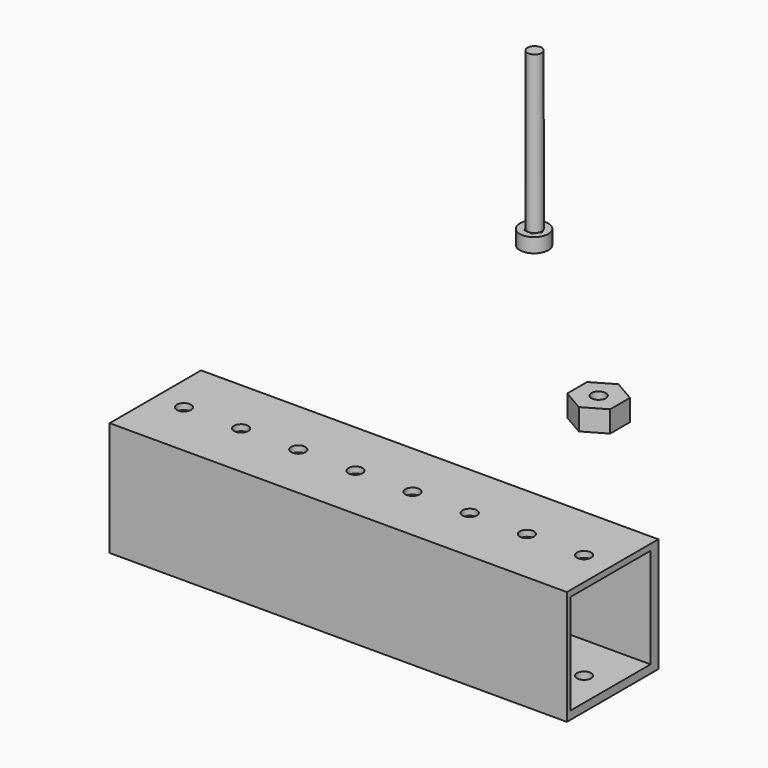
from build123d import *

# Parameters (mm, degrees)
F0_R      = 1.5875
F1_DEPTH  = 4.7625
F2_R      = 1.5875
F3_DEPTH  = 34.925
F4_R      = 3.175
F5_DEPTH  = 3.175
F7_DEPTH  = 3.175
F8_W      = 101.6
F8_H      = 25.4
F9_DEPTH  = 25.4
F10_W     = 22.225
F10_H     = 22.225
F11_DEPTH = 101.6
F12_R     = 1.5875
F13_DEPTH = 25.4


with BuildPart() as f1:
    # F0 (on Top) → F1 (new body)
    with BuildSketch(Plane.XY):
        Polygon((-4.7625, 2.749631), (-4.7625, -2.749631), (0, -5.499261), (4.7625, -2.749631), (4.7625, 2.749631), (0, 5.499261), align=None)
        Circle(F0_R, mode=Mode.SUBTRACT)
    extrude(amount=F1_DEPTH)


with BuildPart() as f3:
    # F2 (on Top) → F3 (new body)
    with BuildSketch(Plane.XY):
        with Locations((-53.541165, 49.139366)):
            Circle(F2_R)
    extrude(amount=F3_DEPTH)

    # F4 (on Top) → F5 (join)
    with BuildSketch(Plane.XY):
        with Locations((-53.650584, 49.121924)):
            Circle(F4_R)
    extrude(amount=-F5_DEPTH)

    # F6 (on Top) → F7 (cut)
    with BuildSketch(Plane.XY):
        Polygon((-54.360942, 50.758298), (-55.396058, 49.245439), (-54.603442, 47.592573), (-52.77571, 47.452565), (-51.740593, 48.965424), (-52.53321, 50.618291), align=None)
    extrude(amount=-F7_DEPTH, mode=Mode.SUBTRACT)


with BuildPart() as f9:
    # F8 (on Top) → F9 (new body)
    with BuildSketch(Plane.XY):
        with Locations((-14.710551, -41.229142)):
            Rectangle(F8_W, F8_H)
    extrude(amount=-F9_DEPTH)

    # F10 (on face) → F11 (cut)
    with BuildSketch(Plane(origin=(-65.510551, 0, 0), x_dir=(0, -1, 0), z_dir=(-1, 0, 0))):
        with Locations((41.818157, -12.472743)):
            Rectangle(F10_W, F10_H)
    extrude(amount=-F11_DEPTH, mode=Mode.SUBTRACT)

    # F12 (on face) → F13 (cut)
    with BuildSketch(Plane(origin=(0, 0, -25.4), x_dir=(1, 0, 0), z_dir=(0, 0, -1))):
        with Locations((-59.160551, 41.229142)):
            Circle(F12_R)
        with Locations((-46.460551, 41.229142)):
            Circle(F12_R)
        with Locations((-33.760551, 41.229142)):
            Circle(F12_R)
        with Locations((-21.060551, 41.229142)):
            Circle(F12_R)
        with Locations((-8.360551, 41.229142)):
            Circle(F12_R)
        with Locations((4.339449, 41.229142)):
            Circle(F12_R)
        with Locations((17.039449, 41.229142)):
            Circle(F12_R)
        with Locations((29.739449, 41.229142)):
            Circle(F12_R)
    extrude(amount=-F13_DEPTH, mode=Mode.SUBTRACT)


solid = Compound([f1.part, f3.part, f9.part])
